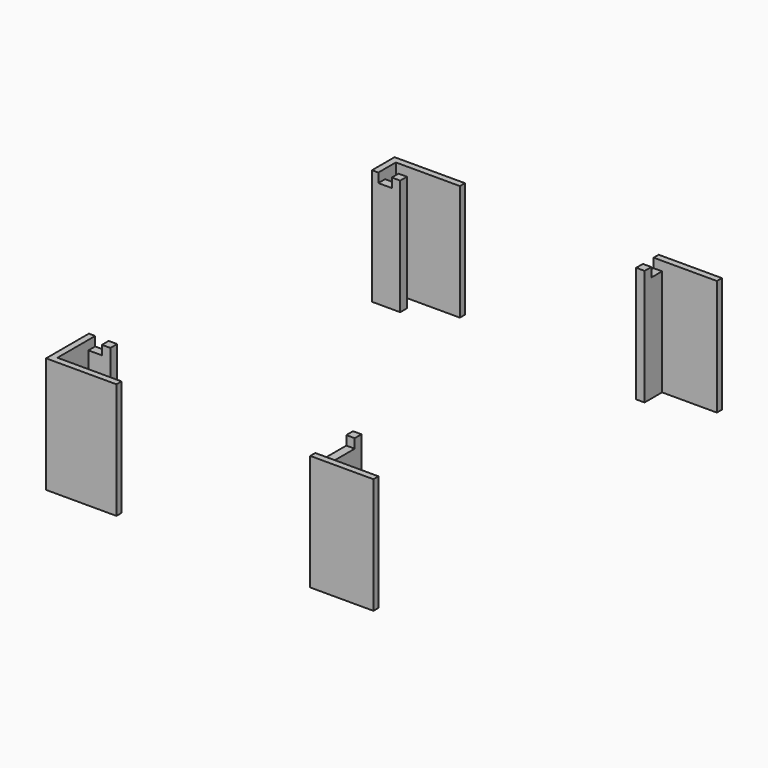
from build123d import *

# Parameters (mm, degrees)
SKETCH070_W      = 3.2
SKETCH070_H      = 4
SKETCH070_W_2    = 4
SKETCH070_H_2    = 3.2
SKETCH070_H_3    = 9.2
EXTRUDE060_DEPTH = 2.7
EXTRUDE059_DEPTH = 27.5


with BuildPart() as extrude060:
    # Sketch070 → Extrude060 (new body)
    with BuildSketch(Plane.XY.offset(1)):
        with Locations((1.4, 96)):
            Rectangle(SKETCH070_W, SKETCH070_H)
        with Locations((62, 98.6)):
            Rectangle(SKETCH070_W_2, SKETCH070_H_2)
        with Locations((1.4, 10)):
            Rectangle(SKETCH070_W, SKETCH070_H)
        with Locations((62, 4.4)):
            Rectangle(SKETCH070_W_2, SKETCH070_H_3)
    extrude(amount=-EXTRUDE060_DEPTH)


with BuildPart() as obj1:
    # Sketch069 → Extrude059 (new body)
    with BuildSketch(Plane.XY.offset(0.5)):
        Polygon((5, 95), (-1.7, 95), (-1.7, 101.7), (15, 101.7), (15, 100.2), (-0.2, 100.2), (-0.2, 97), (5, 97), align=None)
        Polygon((5, 11), (5, 9), (-0.2, 9), (-0.2, -0.2), (15, -0.2), (15, -1.7), (-1.7, -1.7), (-1.7, 11), align=None)
        Polygon((61, 95), (63, 95), (63, 100.2), (76, 100.2), (76, 101.7), (61, 101.7), align=None)
        Polygon((61, 11), (61, -1.7), (76, -1.7), (76, -0.2), (63, -0.2), (63, 11), align=None)
    extrude(amount=-EXTRUDE059_DEPTH)

    # Cut: cut Extrude060
    add(extrude060.part, mode=Mode.SUBTRACT)


solid = obj1.part
